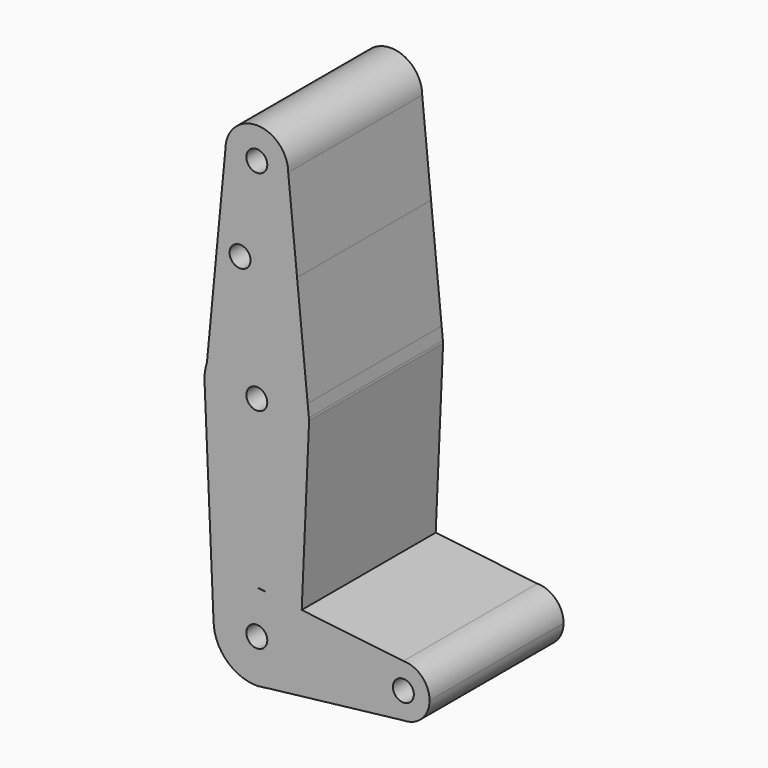
from build123d import *

# Parameters (mm, degrees)
F0_R     = 3.175
F1_DEPTH = 25.4


with BuildPart() as f1:
    # F0 (on Front) → F1 (new body, symmetric)
    with BuildSketch(Plane.XZ):
        with BuildLine():
            ThreePointArc((-98.135353981, 38.3118497444), (-82.4605407052, 49.3130634455), (-67.60536263, 37.2279420774))
            Line((-67.60536263, 37.2279420774), (-70.8167565395, 69.7700589479))
            Line((-70.8167565395, 69.7700589479), (-73.4987966791, 96.9480589479))
            ThreePointArc((-73.4987966791, 96.9480589479), (-83.0237966791, 87.4230589479), (-92.5487966791, 96.9480589479))
            Line((-92.5487966791, 96.9480589479), (-98.135353981, 38.3118497444))
        make_face()
        with Locations((-88.1071984768, 69.7700589479)):
            Circle(F0_R, mode=Mode.SUBTRACT)
        with BuildLine():
            ThreePointArc((-98.8394449745, 32.0766020597), (-82.6839530039, 17.5766969624), (-67.1639389713, 32.7548501134))
            Line((-67.1639389713, 32.7548501134), (-67.2323477549, 33.4480589479))
            Line((-67.2323477549, 33.4480589479), (-79.8487966791, 33.4480589479))
            ThreePointArc((-79.8487966791, 33.4480589479), (-83.0237966791, 30.2730589479), (-86.1987966791, 33.4480589479))
            Line((-86.1987966791, 33.4480589479), (-98.8987966791, 33.4480589479))
            Line((-98.8987966791, 33.4480589479), (-98.8394449745, 32.0766020597))
        make_face()
        with BuildLine():
            Line((-79.8487966791, 33.4480589479), (-67.2323477549, 33.4480589479))
            Line((-67.2323477549, 33.4480589479), (-67.60536263, 37.2279420774))
            ThreePointArc((-67.60536263, 37.2279420774), (-82.4605407052, 49.3130634455), (-98.135353981, 38.3118497444))
            ThreePointArc((-98.135353981, 38.3118497444), (-98.7067746675, 35.9097304159), (-98.8987966791, 33.4480589479))
            Line((-98.8987966791, 33.4480589479), (-86.1987966791, 33.4480589479))
            ThreePointArc((-86.1987966791, 33.4480589479), (-83.0237966791, 36.6230589479), (-79.8487966791, 33.4480589479))
        make_face()
        with BuildLine():
            ThreePointArc((-83.0237966791, -16.9372670215), (-81.5065627429, -17.025326906), (-80.0097040665, -17.2883239844))
            Line((-80.0097040665, -17.2883239844), (-69.4052307289, -18.5234466834))
            Line((-69.4052307289, -18.5234466834), (-67.1639389713, 32.7548501134))
            ThreePointArc((-67.1639389713, 32.7548501134), (-82.6839530039, 17.5766969624), (-98.8394449745, 32.0766020597))
            Line((-98.8394449745, 32.0766020597), (-96.1507458476, -30.0519410521))
            Line((-96.1507458476, -30.0519410521), (-96.1384707097, -30.0519410521))
            ThreePointArc((-96.1384707097, -30.0519410521), (-92.2972716192, -20.778466112), (-83.0237966791, -16.9372670215))
        make_face()
        with BuildLine():
            ThreePointArc((-73.4987966791, 96.9480589479), (-83.0237966791, 106.4730589479), (-92.5487966791, 96.9480589479))
            ThreePointArc((-92.5487966791, 96.9480589479), (-83.0237966791, 87.4230589479), (-73.4987966791, 96.9480589479))
        make_face()
        with BuildLine():
            ThreePointArc((-79.8487966791, 96.9480589479), (-83.0237966791, 93.7730589479), (-86.1987966791, 96.9480589479))
            ThreePointArc((-86.1987966791, 96.9480589479), (-83.0237966791, 100.1230589479), (-79.8487966791, 96.9480589479))
        make_face(mode=Mode.SUBTRACT)
        with BuildLine():
            ThreePointArc((-79.9704602907, -42.80622707), (-72.7272393329, -38.1744764779), (-69.9091226485, -30.0519410521))
            ThreePointArc((-69.9091226485, -30.0519410521), (-72.7397430756, -21.9135802584), (-80.0097040665, -17.2883239844))
            Line((-80.0097040665, -17.2883239844), (-83.0237966791, -16.9372670215))
            ThreePointArc((-83.0237966791, -16.9372670215), (-92.2972716192, -20.778466112), (-96.1384707097, -30.0519410521))
            ThreePointArc((-96.1384707097, -30.0519410521), (-92.1669135373, -39.4539668469), (-82.6576798276, -43.1615037214))
            Line((-82.6576798276, -43.1615037214), (-80.3456263931, -42.8902461913))
            ThreePointArc((-80.3456263931, -42.8902461913), (-80.1577354458, -42.8496114626), (-79.9704602907, -42.80622707))
        make_face()
        with BuildLine():
            ThreePointArc((-79.8487966791, -30.0519410521), (-83.0237966791, -33.2269410521), (-86.1987966791, -30.0519410521))
            ThreePointArc((-86.1987966791, -30.0519410521), (-83.0237966791, -26.8769410521), (-79.8487966791, -30.0519410521))
        make_face(mode=Mode.SUBTRACT)
        with BuildLine():
            Line((-69.4052307289, -18.5234466834), (-69.9091226485, -30.0519410521))
            ThreePointArc((-69.9091226485, -30.0519410521), (-72.7272393329, -38.1744764779), (-79.9704602907, -42.80622707))
            Line((-79.9704602907, -42.80622707), (-38.5737966791, -37.9894410521))
            ThreePointArc((-38.5737966791, -37.9894410521), (-46.5112966791, -30.0519410521), (-38.5737966791, -22.1144410521))
            Line((-38.5737966791, -22.1144410521), (-69.4052307289, -18.5234466834))
        make_face()
        with BuildLine():
            ThreePointArc((-38.5737966791, -22.1144410521), (-46.5112966791, -30.0519410521), (-38.5737966791, -37.9894410521))
            ThreePointArc((-38.5737966791, -37.9894410521), (-32.9611366035, -35.6646011277), (-30.6362966791, -30.0519410521))
            ThreePointArc((-30.6362966791, -30.0519410521), (-32.9611366035, -24.4392809764), (-38.5737966791, -22.1144410521))
        make_face()
        with Locations((-38.5737966791, -30.0519410521)):
            Circle(F0_R, mode=Mode.SUBTRACT)
        with BuildLine():
            ThreePointArc((-80.0097040665, -17.2883239844), (-72.7397430756, -21.9135802584), (-69.9091226485, -30.0519410521))
            Line((-69.9091226485, -30.0519410521), (-69.4052307289, -18.5234466834))
            Line((-69.4052307289, -18.5234466834), (-80.0097040665, -17.2883239844))
        make_face()
    extrude(amount=F1_DEPTH, both=True)


solid = f1.part
